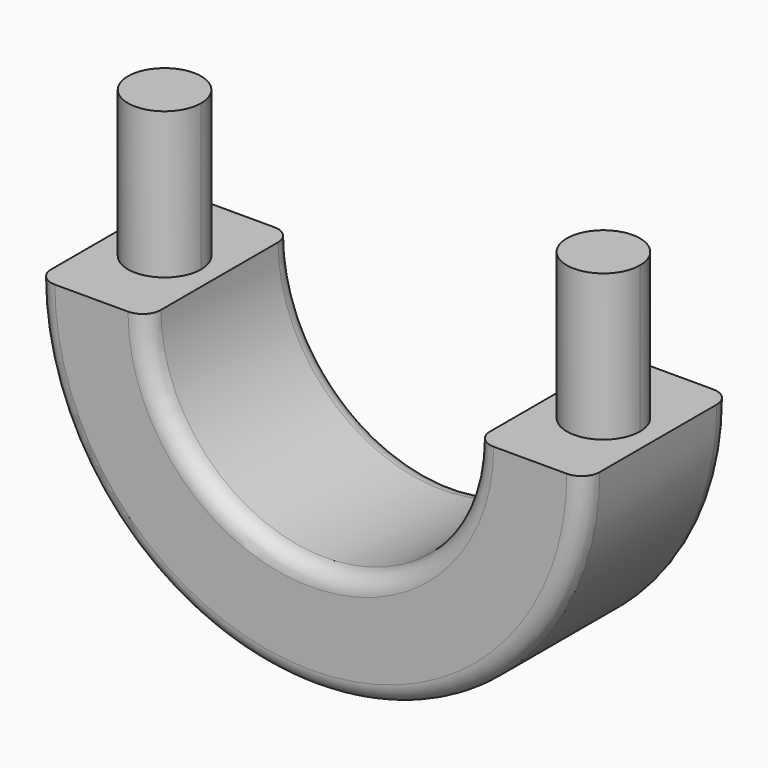
from build123d import *

# Parameters (mm, degrees)
F1_ANGLE = 180
F2_R     = 0.5
F3_DEPTH = 4
F5_DEPTH = 4


with BuildPart() as f1:
    # F0 (on Top) → F1 (revolve)
    with BuildSketch(Plane.XY):
        with BuildLine():
            Line((-4.5, -2.5), (-4.5, 0))
            Line((-4.5, 0), (-5, 0))
            ThreePointArc((-5, 0), (-6.7071067812, -0.7071067812), (-6, 1))
            Line((-6, 1), (-6, 2.5))
            Line((-6, 2.5), (-7.5, 2.5))
            Line((-7.5, 2.5), (-7.5, -2.5))
            Line((-7.5, -2.5), (-4.5, -2.5))
        make_face()
        with BuildLine():
            Line((-4.5, 0), (-4.5, 2.5))
            Line((-4.5, 2.5), (-6, 2.5))
            Line((-6, 2.5), (-6, 1))
            ThreePointArc((-6, 1), (-5.2928932188, 0.7071067812), (-5, 0))
            Line((-5, 0), (-4.5, 0))
        make_face()
        with BuildLine():
            ThreePointArc((-6, 1), (-6.7071067812, -0.7071067812), (-5, 0))
            Line((-5, 0), (-6, 0))
            Line((-6, 0), (-6, 1))
        make_face()
        with BuildLine():
            Line((-6, 0), (-5, 0))
            ThreePointArc((-5, 0), (-5.2928932188, 0.7071067812), (-6, 1))
            Line((-6, 1), (-6, 0))
        make_face()
    revolve(axis=Axis((0, 0, 0), (0, -1, 0)), revolution_arc=F1_ANGLE)

    # F2
    f2_edges = [f1.edges().sort_by_distance(p)[0] for p in [
        (0, 2.5, -7.5),
        (0, -2.5, -7.5),
        (0, -2.5, -4.5),
        (0, 2.5, -4.5),
    ]]
    fillet(f2_edges, radius=F2_R)

    # F4 (on face) → F5 (join)
    with BuildSketch(Plane.XY):
        with BuildLine():
            Line((6, 0), (5, 0))
            ThreePointArc((5, 0), (6, -1), (7, 0))
            ThreePointArc((7, 0), (6.7071067812, 0.7071067812), (6, 1))
            Line((6, 1), (6, 0))
        make_face()
        with BuildLine():
            ThreePointArc((6, 1), (5.2928932188, 0.7071067812), (5, 0))
            Line((5, 0), (6, 0))
            Line((6, 0), (6, 1))
        make_face()
    extrude(amount=F5_DEPTH)


with BuildPart() as f3:
    # F0 (on Top) → F3 (new body)
    with BuildSketch(Plane.XY):
        with BuildLine():
            ThreePointArc((-6, 1), (-6.7071067812, -0.7071067812), (-5, 0))
            Line((-5, 0), (-6, 0))
            Line((-6, 0), (-6, 1))
        make_face()
        with BuildLine():
            Line((-6, 0), (-5, 0))
            ThreePointArc((-5, 0), (-5.2928932188, 0.7071067812), (-6, 1))
            Line((-6, 1), (-6, 0))
        make_face()
    extrude(amount=F3_DEPTH)


solid = Compound([f1.part, f3.part])
